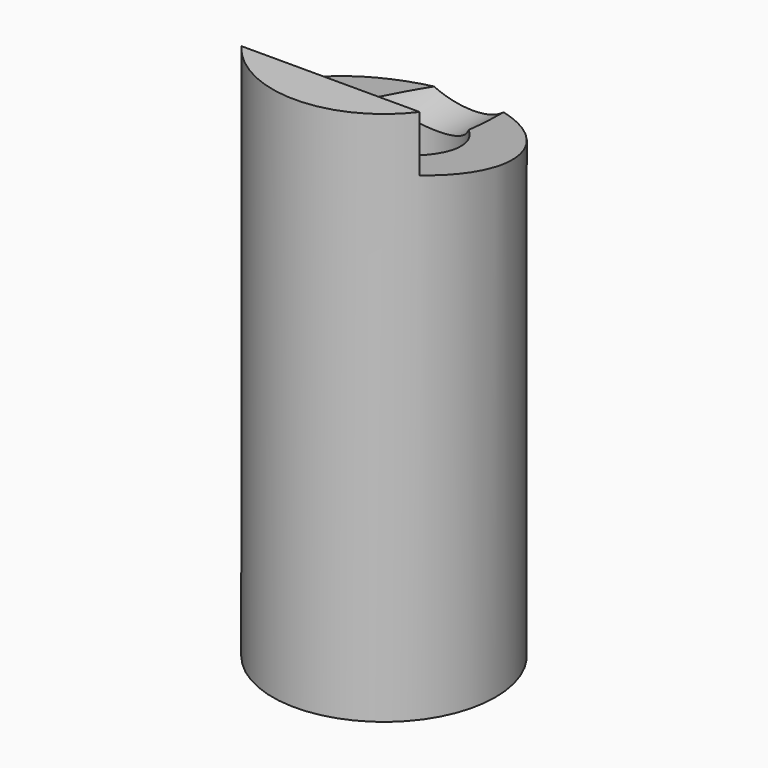
from build123d import *

# Parameters (mm, degrees)
F0_R     = 31.75
F0_R_2   = 19.05
F1_DEPTH = 152.4
F3_DEPTH = 50.8
F4_R     = 15.875
F5_DEPTH = 50.8


with BuildPart() as f1:
    # F0 (on Top) → F1 (new body)
    with BuildSketch(Plane.XY):
        Circle(F0_R)
        Circle(F0_R_2, mode=Mode.SUBTRACT)
    extrude(amount=-F1_DEPTH)

    # F2 (on Right) → F3 (cut, symmetric)
    with BuildSketch(Plane.YZ):
        Polygon((31.75, 0), (-19.05, 0), (-19.05, -15.875), (31.75, -25.4), align=None)
    extrude(amount=F3_DEPTH, both=True, mode=Mode.SUBTRACT)

    # F4 (on Front) → F5 (cut)
    with BuildSketch(Plane.XZ):
        with Locations((0, -12.7)):
            Circle(F4_R)
    extrude(amount=-F5_DEPTH, mode=Mode.SUBTRACT)


solid = f1.part
